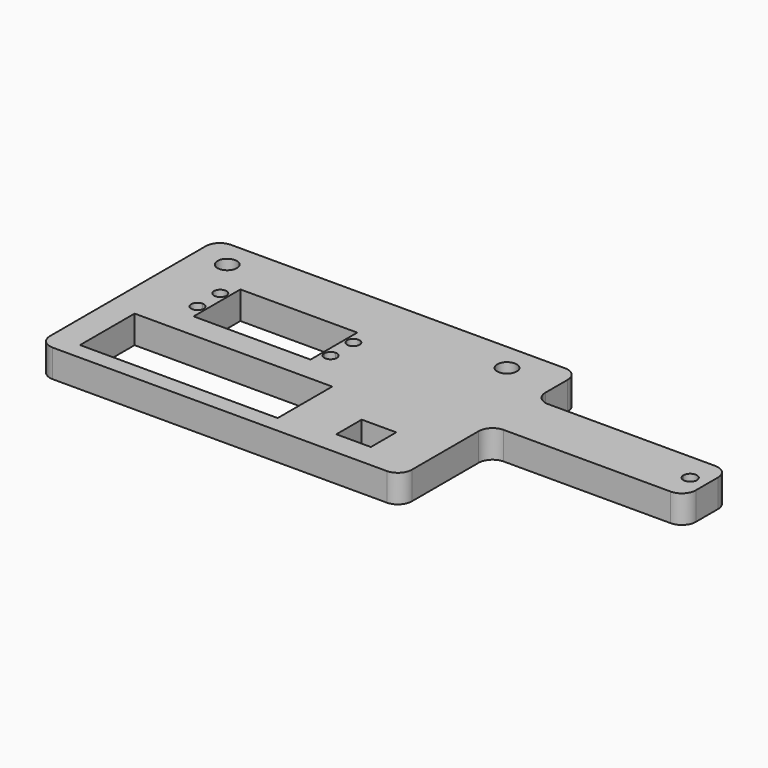
from build123d import *

# Parameters (mm, degrees)
F0_W      = 200
F0_H      = 80
F1_DEPTH  = 10
F2_W      = 42
F2_H      = 21
F3_DEPTH  = 10.001
F4_W      = 71
F4_H      = 24.5
F5_DEPTH  = 10.001
F6_R      = 3.5
F7_DEPTH  = 10.001
F8_R      = 5
F11_W     = 70
F11_H     = 20
F11_H_2   = 40
F9_W      = 12.4
F9_H      = 11.4
F12_DEPTH = 10.001
F13_R     = 5


with BuildPart() as f1:
    # F0 (on Top) → F1 (new body)
    with BuildSketch(Plane.XY):
        Rectangle(F0_W, F0_H)
    extrude(amount=F1_DEPTH)

    # F2 (on face) → F3 (cut, through all)
    with BuildSketch(Plane.XY.offset(10)):
        with Locations((-55, 10)):
            Rectangle(F2_W, F2_H)
    extrude(amount=-F3_DEPTH, mode=Mode.SUBTRACT)

    # F4 (on face) → F5 (cut, through all)
    with BuildSketch(Plane.XY.offset(10)):
        with BuildLine():
            Line((-78.9, 12.85), (-78.9, 15.1))
            Line((-78.9, 15.1), (-76.65, 15.1))
            ThreePointArc((-76.65, 15.1), (-80.4909902577, 16.6909902577), (-78.9, 12.85))
        make_face()
        with BuildLine():
            Line((-76.65, 15.1), (-78.9, 15.1))
            Line((-78.9, 15.1), (-78.9, 12.85))
            ThreePointArc((-78.9, 12.85), (-77.3090097423, 13.5090097423), (-76.65, 15.1))
        make_face()
        with BuildLine():
            Line((-78.9, 4.9), (-78.9, 7.15))
            ThreePointArc((-78.9, 7.15), (-80.4909902577, 3.3090097423), (-76.65, 4.9))
            Line((-76.65, 4.9), (-78.9, 4.9))
        make_face()
        with BuildLine():
            ThreePointArc((-76.65, 4.9), (-77.3090097423, 6.4909902577), (-78.9, 7.15))
            Line((-78.9, 7.15), (-78.9, 4.9))
            Line((-78.9, 4.9), (-76.65, 4.9))
        make_face()
        with BuildLine():
            Line((-31.1, 15.1), (-33.35, 15.1))
            ThreePointArc((-33.35, 15.1), (-32.6909902577, 13.5090097423), (-31.1, 12.85))
            Line((-31.1, 12.85), (-31.1, 15.1))
        make_face()
        with BuildLine():
            ThreePointArc((-28.85, 15.1), (-31.1, 17.35), (-33.35, 15.1))
            Line((-33.35, 15.1), (-31.1, 15.1))
            Line((-31.1, 15.1), (-31.1, 12.85))
            ThreePointArc((-31.1, 12.85), (-29.5090097423, 13.5090097423), (-28.85, 15.1))
        make_face()
        with BuildLine():
            ThreePointArc((-31.1, 7.15), (-32.6909902577, 6.4909902577), (-33.35, 4.9))
            Line((-33.35, 4.9), (-31.1, 4.9))
            Line((-31.1, 4.9), (-31.1, 7.15))
        make_face()
        with BuildLine():
            Line((-31.1, 4.9), (-33.35, 4.9))
            ThreePointArc((-33.35, 4.9), (-31.1, 2.65), (-28.85, 4.9))
            ThreePointArc((-28.85, 4.9), (-29.5090097423, 6.4909902577), (-31.1, 7.15))
            Line((-31.1, 7.15), (-31.1, 4.9))
        make_face()
        with Locations((-54.5, -21.75)):
            Rectangle(F4_W, F4_H)
    extrude(amount=-F5_DEPTH, mode=Mode.SUBTRACT)

    # F6 (on face) → F7 (cut, through all)
    with BuildSketch(Plane.XY.offset(10)):
        with Locations((-88.3175069503, 30)):
            Circle(F6_R)
        with Locations((12.1812492609, 30)):
            Circle(F6_R)
    extrude(amount=-F7_DEPTH, mode=Mode.SUBTRACT)

    # F8
    f8_edges = [f1.edges().sort_by_distance(p)[0] for p in [
        (-100, 40, 5),
        (-100, -40, 5),
        (100, 40, 5),
        (100, -40, 5),
    ]]
    fillet(f8_edges, radius=F8_R)

    # F11 (on face) + F10 (on face) + F9 (on face) → F12 (cut, through all)
    with BuildSketch(Plane.XY.offset(10)):
        with Locations((65, 30)):
            Rectangle(F11_W, F11_H)
        with Locations((65, -20)):
            Rectangle(F11_W, F11_H_2)
    with BuildSketch(Plane.XY.offset(10)):
        with BuildLine():
            ThreePointArc((96.425, 10), (94, 12.425), (91.575, 10))
            Line((91.575, 10), (94, 10))
            Line((94, 10), (94, 7.575))
            ThreePointArc((94, 7.575), (95.7147339444, 8.2852660556), (96.425, 10))
        make_face()
        with BuildLine():
            Line((94, 10), (91.575, 10))
            ThreePointArc((91.575, 10), (92.2852660556, 8.2852660556), (94, 7.575))
            Line((94, 7.575), (94, 10))
        make_face()
    with BuildSketch(Plane.XY.offset(10)):
        with Locations((6.2, -25.7)):
            Rectangle(F9_W, F9_H)
    extrude(amount=-F12_DEPTH, mode=Mode.SUBTRACT)

    # F13
    f13_edges = [f1.edges().sort_by_distance(p)[0] for p in [
        (30, 40, 5),
        (30, 20, 5),
        (100, 20, 5),
        (30, -40, 5),
        (100, 0, 5),
        (30, 0, 5),
    ]]
    fillet(f13_edges, radius=F13_R)


solid = f1.part
